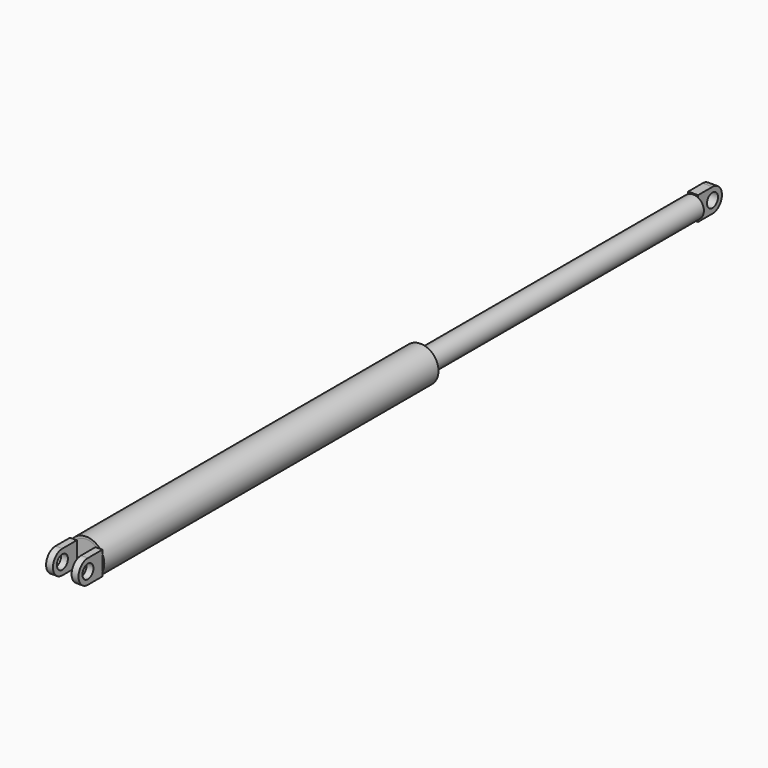
from build123d import *

# Parameters (mm, degrees)
F0_W      = 4252
F0_H      = 24
F0_R      = 70
F3_DEPTH  = 165
F4_DEPTH  = 50
F6_DEPTH  = 95
F8_DEPTH  = 349.001
F10_DEPTH = 234.001


with BuildPart() as f1:
    # F0 (on Right) → F1 (revolve)
    with BuildSketch(Plane.YZ):
        with Locations((2310, 172)):
            Rectangle(F0_W, F0_H)
    revolve(axis=Axis((0, 2310, 0), (0, 1, 0)))

    # F0 (on Right) → F3 (join, symmetric)
    with BuildSketch(Plane.YZ):
        with BuildLine():
            ThreePointArc((0, -184), (130.1076477383, -130.1076477383), (184, 0))
            ThreePointArc((184, 0), (130.1076477383, 130.1076477383), (0, 184))
            ThreePointArc((0, 184), (-184, 0), (0, -184))
        make_face()
        Circle(F0_R, mode=Mode.SUBTRACT)
        with BuildLine():
            ThreePointArc((0, 184), (130.1076477383, 130.1076477383), (184, 0))
            Line((184, 0), (184, 160))
            Line((184, 160), (184, 184))
            Line((184, 184), (0, 184))
        make_face()
        with BuildLine():
            Line((184, -184), (184, 0))
            ThreePointArc((184, 0), (130.1076477383, -130.1076477383), (0, -184))
            Line((0, -184), (184, -184))
        make_face()
    extrude(amount=F3_DEPTH, both=True)

    # F0 (on Right) → F6 (cut, symmetric)
    with BuildSketch(Plane.YZ):
        with BuildLine():
            ThreePointArc((0, -184), (130.1076477383, -130.1076477383), (184, 0))
            ThreePointArc((184, 0), (130.1076477383, 130.1076477383), (0, 184))
            ThreePointArc((0, 184), (-184, 0), (0, -184))
        make_face()
        Circle(F0_R, mode=Mode.SUBTRACT)
        with BuildLine():
            ThreePointArc((0, 184), (130.1076477383, 130.1076477383), (184, 0))
            Line((184, 0), (184, 160))
            Line((184, 160), (184, 184))
            Line((184, 184), (0, 184))
        make_face()
        with BuildLine():
            Line((184, -184), (184, 0))
            ThreePointArc((184, 0), (130.1076477383, -130.1076477383), (0, -184))
            Line((0, -184), (184, -184))
        make_face()
    extrude(amount=F6_DEPTH, both=True, mode=Mode.SUBTRACT)

    # F7 (on face) → F8 (cut, through all)
    with BuildSketch(Plane.YZ.offset(165)):
        with BuildLine():
            ThreePointArc((0, -120), (-120, 0), (0, 120))
            Line((0, 120), (184, 120))
            Line((184, 120), (184, 184))
            Line((184, 184), (0, 184))
            ThreePointArc((0, 184), (-184, 0), (0, -184))
            Line((0, -184), (184, -184))
            Line((184, -184), (184, -120))
            Line((184, -120), (0, -120))
        make_face()
    extrude(amount=-F8_DEPTH, mode=Mode.SUBTRACT)


with BuildPart() as f2:
    # F0 (on Right) → F2 (revolve)
    with BuildSketch(Plane.YZ):
        Polygon((4436, 0), (3653, 0), (3653, -110), (7905, -110), (7905, 0), align=None)
    revolve(axis=Axis((0, 6170.5, 0), (0, 1, 0)))

    # F0 (on Right) → F4 (join, symmetric)
    with BuildSketch(Plane.YZ):
        with BuildLine():
            ThreePointArc((8089, 184), (7958.8923522617, 130.1076477383), (7905, 0))
            ThreePointArc((7905, 0), (7958.8923522617, -130.1076477383), (8089, -184))
            ThreePointArc((8089, -184), (8219.1076477383, -130.1076477383), (8273, 0))
            ThreePointArc((8273, 0), (8219.1076477383, 130.1076477383), (8089, 184))
        make_face()
        with Locations((8089, 0)):
            Circle(F0_R, mode=Mode.SUBTRACT)
        with BuildLine():
            Line((7905, 184), (7905, 0))
            ThreePointArc((7905, 0), (7958.8923522617, 130.1076477383), (8089, 184))
            Line((8089, 184), (7905, 184))
        make_face()
        with BuildLine():
            ThreePointArc((8089, -184), (7958.8923522617, -130.1076477383), (7905, 0))
            Line((7905, 0), (7905, -110))
            Line((7905, -110), (7905, -184))
            Line((7905, -184), (8089, -184))
        make_face()
    extrude(amount=F4_DEPTH, both=True)

    # F9 (on face) → F10 (cut, through all)
    with BuildSketch(Plane.YZ.offset(50)):
        with BuildLine():
            ThreePointArc((8089, 120), (8173.8528137424, 84.8528137424), (8209, 0))
            ThreePointArc((8209, 0), (8173.8528137424, -84.8528137424), (8089, -120))
            Line((8089, -120), (7905, -120))
            Line((7905, -120), (7905, -184))
            Line((7905, -184), (8089, -184))
            ThreePointArc((8089, -184), (8273, 0), (8089, 184))
            Line((8089, 184), (7905, 184))
            Line((7905, 184), (7905, 120))
            Line((7905, 120), (8089, 120))
        make_face()
    extrude(amount=-F10_DEPTH, mode=Mode.SUBTRACT)


with BuildPart() as f5:
    # F0 (on Right) → F5 (revolve)
    with BuildSketch(Plane.YZ):
        Polygon((184, 160), (184, 0), (3653, 0), (4436, 0), (4436, 160), align=None)
    revolve(axis=Axis((0, 2310, 0), (0, 1, 0)))


solid = Compound([f1.part, f2.part, f5.part])
